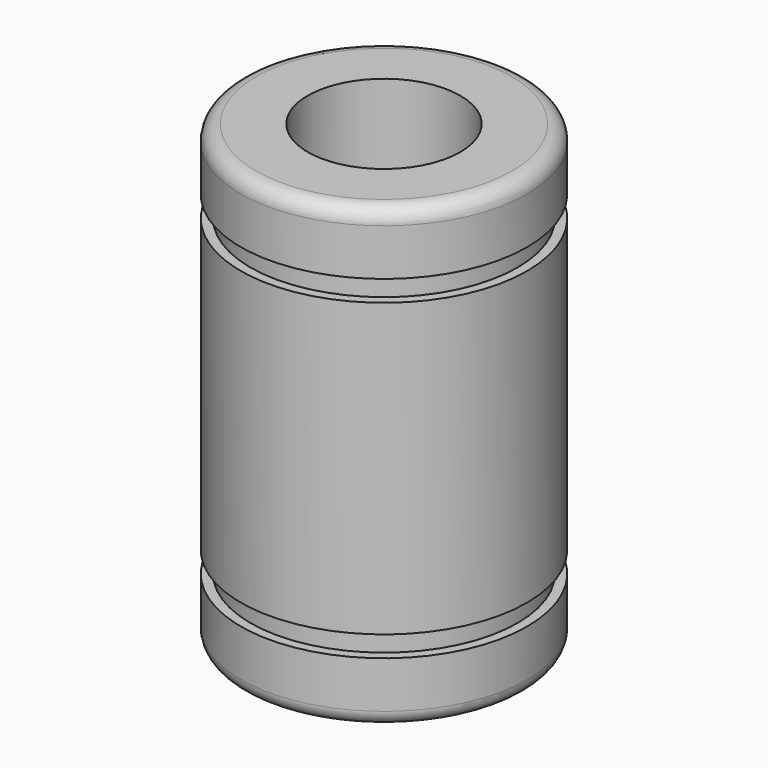
from build123d import *

# Parameters (mm, degrees)
F0_R     = 7.5
F0_R_2   = 4
F1_DEPTH = 24
F2_W     = 0.5
F2_H     = 1.1
F4_R     = 0.8


with BuildPart() as f1:
    # F0 (on Top) → F1 (new body)
    with BuildSketch(Plane.XY):
        Circle(F0_R)
        Circle(F0_R_2, mode=Mode.SUBTRACT)
    extrude(amount=F1_DEPTH)

    # F2 (on Front) → F3 (revolve, cut)
    with BuildSketch(Plane.XZ):
        with Locations((-7.25, 20.2)):
            Rectangle(F2_W, F2_H)
        with Locations((-7.25, 3.8)):
            Rectangle(F2_W, F2_H)
    revolve(axis=Axis((0, 0, 12), (0, 0, 1)), mode=Mode.SUBTRACT)

    # F4
    f4_edges = [f1.edges().sort_by_distance(p)[0] for p in [
        (-7.5, 0, 24),
        (-7.5, 0, 0),
    ]]
    fillet(f4_edges, radius=F4_R)


solid = f1.part
